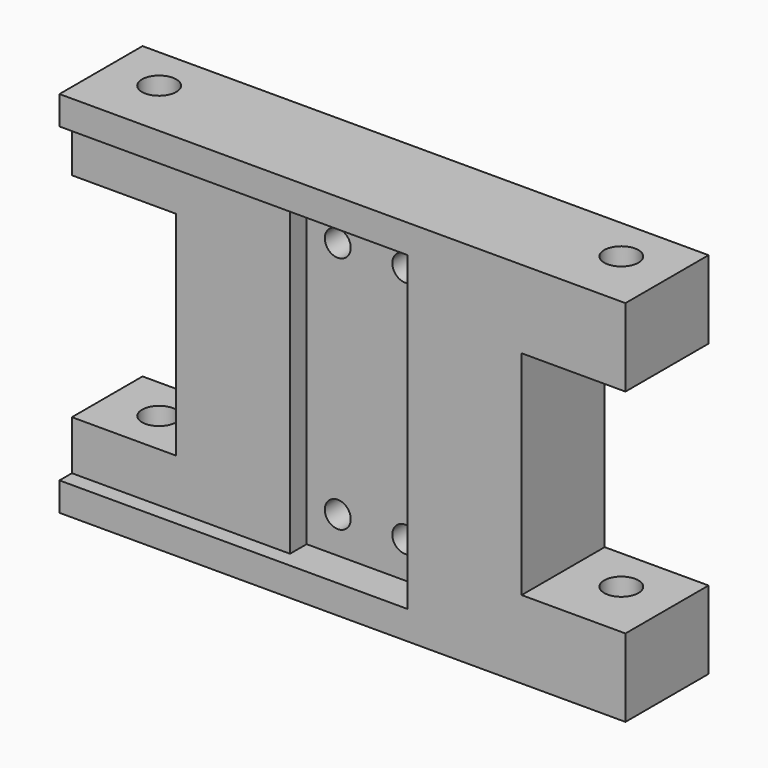
from build123d import *

# Parameters (mm, degrees)
F1_DEPTH = 20
F3_DEPTH = 7
F4_DEPTH = 3
F6_D     = 6.6
F6_DEPTH = 15.001
F8_D     = 6.6
F9_D     = 5


with BuildPart() as f1:
    # F0 (on Front) → F1 (new body)
    with BuildSketch(Plane.XZ):
        Polygon((54.5, 35.5), (-54.5, 35.5), (-54.5, 20.5), (-34.5, 20.5), (-34.5, 0), (-34.5, -20.5), (-54.5, -20.5), (-54.5, -35.5), (54.5, -35.5), (54.5, -20.5), (34.5, -20.5), (34.5, 0), (34.5, 20.5), (54.5, 20.5), align=None)
    extrude(amount=F1_DEPTH)

    # F2 (on face) → F3 (cut)
    with BuildSketch(Plane.XZ.offset(20)):
        Polygon((0, 30), (-12.5, 30), (-12.5, 0), (-12.5, -30), (0, -30), (12.5, -30), (12.5, 0), (12.5, 30), align=None)
    extrude(amount=-F3_DEPTH, mode=Mode.SUBTRACT)

    # F2 (on face) → F4 (cut)
    with BuildSketch(Plane.XZ.offset(20)):
        Polygon((-12.5, 0), (-12.5, 30), (-54.5, 30), (-54.5, 20.5), (-34.5, 20.5), (-34.5, -20.5), (-54.5, -20.5), (-54.5, -30), (-12.5, -30), align=None)
    extrude(amount=-F4_DEPTH, mode=Mode.SUBTRACT)

    # F6 (through all, one way)
    with BuildSketch(Plane(origin=(0, 0, 20.5), x_dir=(1, 0, 0), z_dir=(0, 0, -1))):
        with Locations((-44.5, 8.5), (44.5, 8.5)):
            Circle(F6_D / 2)
    extrude(amount=-F6_DEPTH, mode=Mode.SUBTRACT)

    # F8 (through all)
    with Locations(Plane.XY.offset(-20.5)):
        with Locations((-44.5, -8.5), (44.5, -8.5)):
            Hole(F8_D / 2)

    # F9 (through all)
    with Locations(Plane.XZ.offset(20)):
        with Locations((-6.5, 23), (-6.5, -23), (6.5, -23), (6.5, 23)):
            Hole(F9_D / 2)


solid = f1.part
